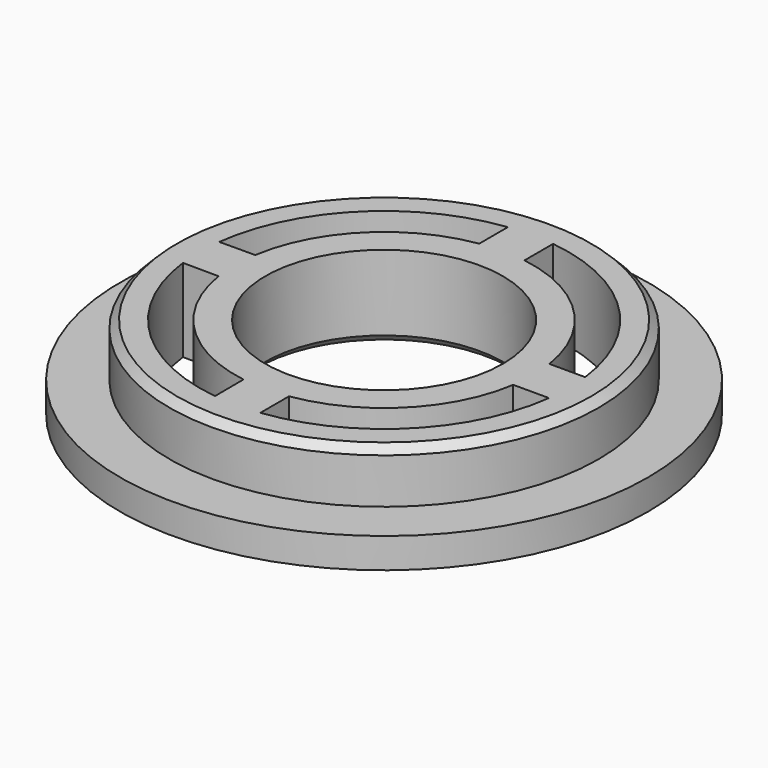
from build123d import *

# Parameters (mm, degrees)
F0_R     = 35
F1_DEPTH = 4
F2_R     = 28.45
F3_DEPTH = 7
F4_R     = 15.75
F5_DEPTH = 11.001
F6_SIZE  = 1


with BuildPart() as f1:
    # F0 (on Top) → F1 (new body)
    with BuildSketch(Plane.XY):
        Circle(F0_R)
    extrude(amount=F1_DEPTH)

    # F2 (on face) → F3 (join)
    with BuildSketch(Plane.XY.offset(4)):
        Circle(F2_R)
    extrude(amount=F3_DEPTH)

    # F4 (on face) → F5 (cut, through all)
    with BuildSketch(Plane.XY.offset(11)):
        with BuildLine():
            Line((19.520822, 3), (24.265253, 3))
            ThreePointArc((24.265253, 3), (17.288761, 17.288761), (3, 24.265253))
            Line((3, 24.265253), (3, 19.520822))
            ThreePointArc((3, 19.520822), (13.965359, 13.965359), (19.520822, 3))
        make_face()
        with BuildLine():
            ThreePointArc((3, -24.265253), (17.288761, -17.288761), (24.265253, -3))
            Line((24.265253, -3), (19.520822, -3))
            ThreePointArc((19.520822, -3), (13.965359, -13.965359), (3, -19.520822))
            Line((3, -19.520822), (3, -24.265253))
        make_face()
        with BuildLine():
            Line((-3, 19.520822), (-3, 24.265253))
            ThreePointArc((-3, 24.265253), (-17.285086, 17.292435), (-24.263976, 3.010314))
            Line((-24.263976, 3.010314), (-19.514873, 3.038462))
            ThreePointArc((-19.514873, 3.038462), (-13.951592, 13.979112), (-3, 19.520822))
        make_face()
        with BuildLine():
            ThreePointArc((-3.038462, -19.514873), (-13.965359, -13.965359), (-19.514873, -3.038462))
            Line((-19.514873, -3.038462), (-24.263976, -3.010314))
            ThreePointArc((-24.263976, -3.010314), (-17.288467, -17.289054), (-3.00949, -24.264078))
            Line((-3.00949, -24.264078), (-3.038462, -19.514873))
        make_face()
        Circle(F4_R)
    extrude(amount=-F5_DEPTH, mode=Mode.SUBTRACT)

    # F6
    f6_edges = [f1.edges().sort_by_distance(p)[0] for p in [
        (-28.45, 0, 11),
        (-15.75, 0, 0),
    ]]
    chamfer(f6_edges, length=F6_SIZE)


solid = f1.part
